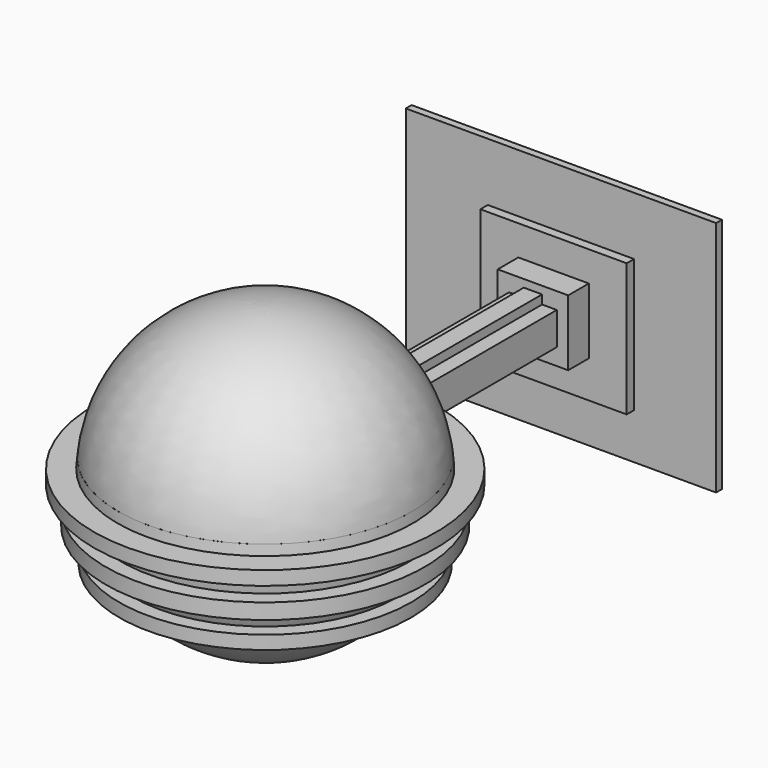
from build123d import *

# Parameters (mm, degrees)
F1_DEPTH = 8.7
F2_DEPTH = 3.4
F3_DEPTH = 77.6
F6_DEPTH = 1.5
F7_R     = 3.591203
F8_DEPTH = 79


with BuildPart() as f1:
    # F0 (on Front) → F1 (new body)
    with BuildSketch(Plane.XZ):
        Polygon((7.257144, 6.775), (0.357144, 6.775), (-0.357144, 6.775), (-7.257144, 6.775), (-7.257144, -6.803571), (0, -6.803571), (7.257144, -6.803571), align=None)
        Polygon((-4.914252, 3.36768), (-1.884952, 3.36768), (-1.884952, 5.203119), (0, 5.203119), (1.884952, 5.203119), (1.884952, 3.36768), (4.914252, 3.36768), (4.914252, -3.36768), (1.884952, -3.36768), (1.884952, -5.203119), (0, -5.203119), (-1.884952, -5.203119), (-1.884952, -3.36768), (-4.914252, -3.36768), align=None, mode=Mode.SUBTRACT)
    extrude(amount=F1_DEPTH)

    # F0 (on Front) → F2 (join)
    with BuildSketch(Plane.XZ):
        Polygon((15.058568, 12.972143), (0, 12.972143), (-15.058568, 12.972143), (-15.058568, -14.423572), (0, -14.423572), (15.058568, -14.423572), align=None)
        Polygon((-0.357144, 6.775), (0.357144, 6.775), (7.257144, 6.775), (7.257144, -6.803571), (0, -6.803571), (-7.257144, -6.803571), (-7.257144, 6.775), align=None, mode=Mode.SUBTRACT)
    extrude(amount=F2_DEPTH)

    # F0 (on Front) → F3 (join)
    with BuildSketch(Plane.XZ):
        Polygon((-1.884952, 5.203119), (-1.884952, 3.36768), (-4.914252, 3.36768), (-4.914252, -3.36768), (-1.884952, -3.36768), (-1.884952, -5.203119), (0, -5.203119), (1.884952, -5.203119), (1.884952, -3.36768), (4.914252, -3.36768), (4.914252, 3.36768), (1.884952, 3.36768), (1.884952, 5.203119), (0, 5.203119), align=None)
    extrude(amount=F3_DEPTH)

    # F4 (on face) → F5 (revolve)
    with BuildSketch(Plane.XZ.offset(77.6)):
        with BuildLine():
            Line((0, -30.340688), (0, 30.399064))
            ThreePointArc((0, 30.399064), (-20.376286, 22.548875), (-30.218602, 3.056638))
            Line((-30.218602, 3.056638), (-30.213827, 3.056617))
            ThreePointArc((-30.213827, 3.056617), (-30.329415, 2.021258), (-30.394244, 0.981487))
            Line((-30.394244, 0.981487), (-35.254887, 0.981487))
            Line((-35.254887, 0.981487), (-35.254887, -1.88553))
            Line((-35.254887, -1.88553), (-30.309458, -1.88553))
            ThreePointArc((-30.309458, -1.88553), (-30.097927, -4.02595), (-29.735434, -6.146031))
            Line((-29.735434, -6.146031), (-32.824565, -6.146031))
            Line((-32.824565, -6.146031), (-32.824565, -9.344837))
            Line((-32.824565, -9.344837), (-28.88697, -9.344837))
            ThreePointArc((-28.88697, -9.344837), (-28.12977, -11.418319), (-27.223959, -13.431325))
            Line((-27.223959, -13.431325), (-30.08412, -13.431325))
            Line((-30.08412, -13.431325), (-30.023124, -16.233983))
            Line((-30.023124, -16.233983), (-25.707677, -16.140064))
            ThreePointArc((-25.707677, -16.140064), (-14.684536, -26.554525), (0, -30.340688))
        make_face()
        with BuildLine():
            Line((0, -30.340688), (0, 30.399064))
            ThreePointArc((0, 30.399064), (-20.376286, 22.548875), (-30.218602, 3.056638))
            Line((-30.218602, 3.056638), (-30.213827, 3.056617))
            ThreePointArc((-30.213827, 3.056617), (-30.329415, 2.021258), (-30.394244, 0.981487))
            Line((-30.394244, 0.981487), (-35.254887, 0.981487))
            Line((-35.254887, 0.981487), (-35.254887, -1.88553))
            Line((-35.254887, -1.88553), (-30.309458, -1.88553))
            ThreePointArc((-30.309458, -1.88553), (-30.097927, -4.02595), (-29.735434, -6.146031))
            Line((-29.735434, -6.146031), (-32.824565, -6.146031))
            Line((-32.824565, -6.146031), (-32.824565, -9.344837))
            Line((-32.824565, -9.344837), (-28.88697, -9.344837))
            ThreePointArc((-28.88697, -9.344837), (-28.12977, -11.418319), (-27.223959, -13.431325))
            Line((-27.223959, -13.431325), (-30.08412, -13.431325))
            Line((-30.08412, -13.431325), (-30.023124, -16.233983))
            Line((-30.023124, -16.233983), (-25.707677, -16.140064))
            ThreePointArc((-25.707677, -16.140064), (-14.684536, -26.554525), (0, -30.340688))
        make_face()
    revolve(axis=Axis((0, -77.6, 0.029188), (0, 0, -1)))

    # F0 (on Front) → F6 (join)
    with BuildSketch(Plane.XZ):
        Polygon((31.946296, 24.979707), (0, 24.979707), (-31.946296, 24.979707), (-31.946296, -23.860997), (0, -23.860997), (31.946296, -23.860997), align=None)
        Polygon((-15.058568, 12.972143), (0, 12.972143), (15.058568, 12.972143), (15.058568, -14.423572), (0, -14.423572), (-15.058568, -14.423572), align=None, mode=Mode.SUBTRACT)
    extrude(amount=F6_DEPTH)

    # F7 (on Front) → F8 (cut)
    with BuildSketch(Plane.XZ):
        Circle(F7_R)
    extrude(amount=F8_DEPTH, mode=Mode.SUBTRACT)


solid = f1.part
